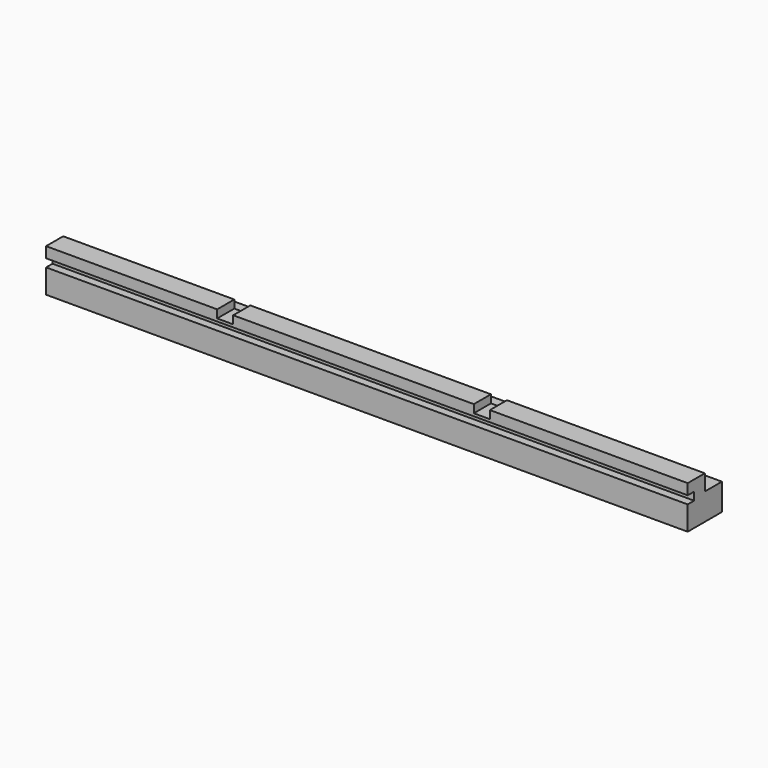
from build123d import *

# Parameters (mm, degrees)
F1_DEPTH = 762
F2_W     = 19.05
F2_H     = 9.525
F3_DEPTH = 25.4


with BuildPart() as f1:
    # F0 (on Right) → F1 (new body)
    with BuildSketch(Plane.YZ):
        Polygon((0, 28.575), (0, 0), (50.8, 0), (50.8, 31.75), (25.4, 31.75), (25.4, 50.8), (0, 50.8), (0, 38.1), (9.525, 38.1), (9.525, 28.575), align=None)
    extrude(amount=-F1_DEPTH)

    # F2 (on face) → F3 (cut)
    with BuildSketch(Plane.XZ):
        with Locations((-549.275, 46.0375)):
            Rectangle(F2_W, F2_H)
        with Locations((-244.475, 46.0375)):
            Rectangle(F2_W, F2_H)
    extrude(amount=-F3_DEPTH, mode=Mode.SUBTRACT)


solid = f1.part
